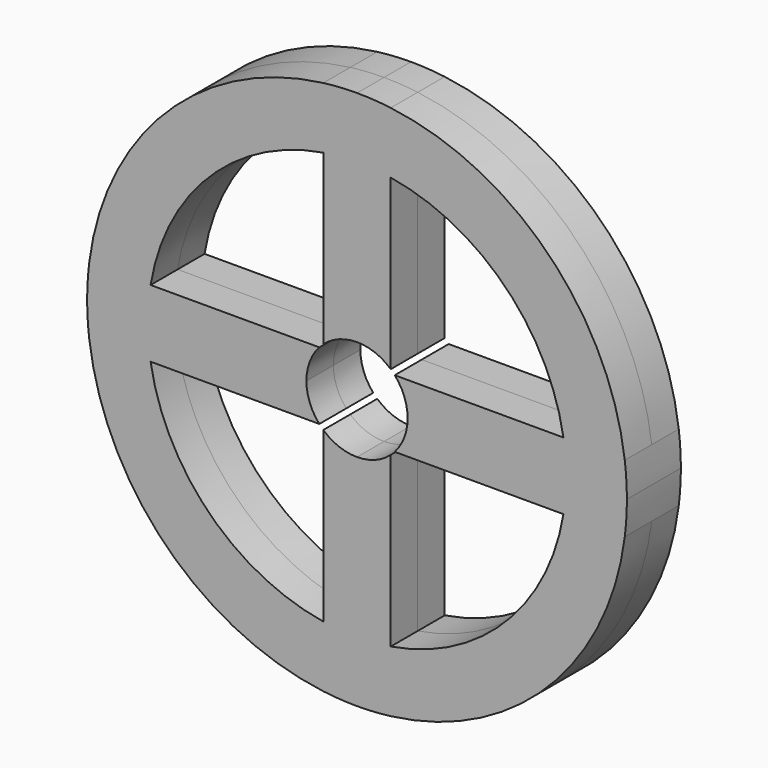
from build123d import *

# Parameters (mm, degrees)
F1_DEPTH = 5


with BuildPart() as f1:
    # F0 (on Front) → F1 (new body, symmetric)
    with BuildSketch(Plane.XZ):
        with BuildLine():
            Line((31, 0), (40, 0))
            ThreePointArc((40, 0), (39.9214903695, 2.5049165017), (39.686269666, 5))
            Line((39.686269666, 5), (30.5941170816, 5))
            ThreePointArc((30.5941170816, 5), (30.8983626551, 2.5082235219), (31, 0))
        make_face()
        with BuildLine():
            ThreePointArc((39.686269666, -5), (39.9214903695, -2.5049165017), (40, 0))
            Line((40, 0), (31, 0))
            ThreePointArc((31, 0), (30.8983626551, -2.5082235219), (30.5941170816, -5))
            Line((30.5941170816, -5), (39.686269666, -5))
        make_face()
        with BuildLine():
            Line((30.5941170816, 5), (39.686269666, 5))
            ThreePointArc((39.686269666, 5), (28.2842712475, 28.2842712475), (5, 39.686269666))
            Line((5, 39.686269666), (5, 30.5941170816))
            ThreePointArc((5, 30.5941170816), (21.9203102168, 21.9203102168), (30.5941170816, 5))
        make_face()
        with BuildLine():
            ThreePointArc((5, -39.686269666), (28.2842712475, -28.2842712475), (39.686269666, -5))
            Line((39.686269666, -5), (30.5941170816, -5))
            ThreePointArc((30.5941170816, -5), (21.9203102168, -21.9203102168), (5, -30.5941170816))
            Line((5, -30.5941170816), (5, -39.686269666))
        make_face()
        with BuildLine():
            Line((5, 30.5941170816), (5, 39.686269666))
            ThreePointArc((5, 39.686269666), (2.5049165017, 39.9214903695), (0, 40))
            Line((0, 40), (0, 31))
            ThreePointArc((0, 31), (2.5082235219, 30.8983626551), (5, 30.5941170816))
        make_face()
        with BuildLine():
            ThreePointArc((0, -40), (2.5049165017, -39.9214903695), (5, -39.686269666))
            Line((5, -39.686269666), (5, -30.5941170816))
            ThreePointArc((5, -30.5941170816), (2.5082235219, -30.8983626551), (0, -31))
            Line((0, -31), (0, -40))
        make_face()
        with BuildLine():
            Line((0, 31), (0, 40))
            ThreePointArc((0, 40), (-2.5049165017, 39.9214903695), (-5, 39.686269666))
            Line((-5, 39.686269666), (-5, 30.5941170816))
            ThreePointArc((-5, 30.5941170816), (-2.5082235219, 30.8983626551), (0, 31))
        make_face()
        with BuildLine():
            ThreePointArc((-5, -39.686269666), (-2.5049165017, -39.9214903695), (0, -40))
            Line((0, -40), (0, -31))
            ThreePointArc((0, -31), (-2.5082235219, -30.8983626551), (-5, -30.5941170816))
            Line((-5, -30.5941170816), (-5, -39.686269666))
        make_face()
        with BuildLine():
            Line((-5, 30.5941170816), (-5, 39.686269666))
            ThreePointArc((-5, 39.686269666), (-28.2842712475, 28.2842712475), (-39.686269666, 5))
            Line((-39.686269666, 5), (-30.5941170816, 5))
            ThreePointArc((-30.5941170816, 5), (-21.9203102168, 21.9203102168), (-5, 30.5941170816))
        make_face()
        with BuildLine():
            ThreePointArc((-39.686269666, -5), (-28.2842712475, -28.2842712475), (-5, -39.686269666))
            Line((-5, -39.686269666), (-5, -30.5941170816))
            ThreePointArc((-5, -30.5941170816), (-21.9203102168, -21.9203102168), (-30.5941170816, -5))
            Line((-30.5941170816, -5), (-39.686269666, -5))
        make_face()
        with BuildLine():
            Line((-30.5941170816, 5), (-39.686269666, 5))
            ThreePointArc((-39.686269666, 5), (-39.9214903695, 2.5049165017), (-40, 0))
            Line((-40, 0), (-31, 0))
            ThreePointArc((-31, 0), (-30.8983626551, 2.5082235219), (-30.5941170816, 5))
        make_face()
        with BuildLine():
            ThreePointArc((-40, 0), (-39.9214903695, -2.5049165017), (-39.686269666, -5))
            Line((-39.686269666, -5), (-30.5941170816, -5))
            ThreePointArc((-30.5941170816, -5), (-30.8983626551, -2.5082235219), (-31, 0))
            Line((-31, 0), (-40, 0))
        make_face()
        with BuildLine():
            ThreePointArc((30.5941170816, -5), (30.8983626551, -2.5082235219), (31, 0))
            Line((31, 0), (7.5, 0))
            ThreePointArc((7.5, 0), (7.0062926922, -2.6761656733), (5.5901699437, -5))
            Line((5.5901699437, -5), (30.5941170816, -5))
        make_face()
        with BuildLine():
            Line((7.5, 0), (31, 0))
            ThreePointArc((31, 0), (30.8983626551, 2.5082235219), (30.5941170816, 5))
            Line((30.5941170816, 5), (5.5901699437, 5))
            ThreePointArc((5.5901699437, 5), (7.0062926922, 2.6761656733), (7.5, 0))
        make_face()
        with BuildLine():
            Line((5, 5.5901699437), (5, 30.5941170816))
            ThreePointArc((5, 30.5941170816), (2.5082235219, 30.8983626551), (0, 31))
            Line((0, 31), (0, 7.5))
            ThreePointArc((0, 7.5), (2.6761656733, 7.0062926922), (5, 5.5901699437))
        make_face()
        with BuildLine():
            Line((0, 7.5), (0, 31))
            ThreePointArc((0, 31), (-2.5082235219, 30.8983626551), (-5, 30.5941170816))
            Line((-5, 30.5941170816), (-5, 5.5901699437))
            ThreePointArc((-5, 5.5901699437), (-2.6761656733, 7.0062926922), (0, 7.5))
        make_face()
        with BuildLine():
            Line((-5.5901699437, 5), (-30.5941170816, 5))
            ThreePointArc((-30.5941170816, 5), (-30.8983626551, 2.5082235219), (-31, 0))
            Line((-31, 0), (-7.5, 0))
            ThreePointArc((-7.5, 0), (-7.0062926922, 2.6761656733), (-5.5901699437, 5))
        make_face()
        with BuildLine():
            ThreePointArc((0, -31), (2.5082235219, -30.8983626551), (5, -30.5941170816))
            Line((5, -30.5941170816), (5, -5.5901699437))
            ThreePointArc((5, -5.5901699437), (2.6761656733, -7.0062926922), (0, -7.5))
            Line((0, -7.5), (0, -31))
        make_face()
        with BuildLine():
            ThreePointArc((-5, -30.5941170816), (-2.5082235219, -30.8983626551), (0, -31))
            Line((0, -31), (0, -7.5))
            ThreePointArc((0, -7.5), (-2.6761656733, -7.0062926922), (-5, -5.5901699437))
            Line((-5, -5.5901699437), (-5, -30.5941170816))
        make_face()
        with BuildLine():
            ThreePointArc((-31, 0), (-30.8983626551, -2.5082235219), (-30.5941170816, -5))
            Line((-30.5941170816, -5), (-5.5901699437, -5))
            ThreePointArc((-5.5901699437, -5), (-7.0062926922, -2.6761656733), (-7.5, 0))
            Line((-7.5, 0), (-31, 0))
        make_face()
    extrude(amount=F1_DEPTH, both=True)


solid = f1.part
